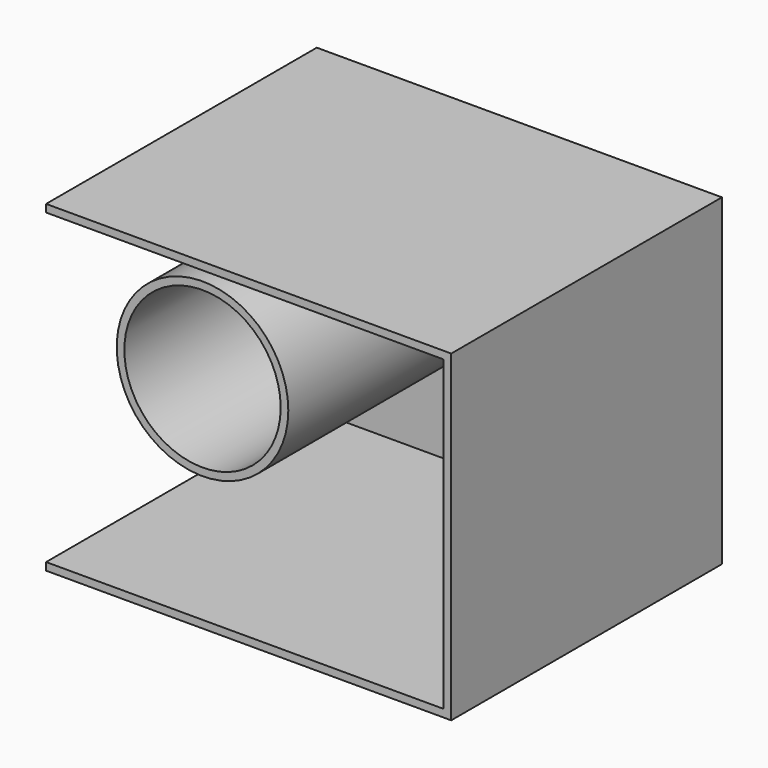
from build123d import *

# Parameters (mm, degrees)
F0_W     = 107.5063981116
F0_H     = 105.9287339449
F0_R     = 25.6439275176
F1_DEPTH = 25.4
F2_DEPTH = 85.598
F3_DEPTH = 25.4
F4_T     = -2.5


with BuildPart() as f1:
    # F0 (on Front) → F1 (new body)
    with BuildSketch(Plane.XZ):
        with Locations((-1.0142084211, -1.1269003153)):
            Rectangle(F0_W, F0_H)
        with Locations((-28.848676011, 18.0304218084)):
            Circle(F0_R, mode=Mode.SUBTRACT)
    extrude(amount=F1_DEPTH)

    # F2 (add): faces of the model
    f2_faces = [f1.faces().sort_by_distance(p)[0] for p in [
        (5.1544323565, -25.4, -5.372522692),
        (5.1544323565, 0, -5.372522692),
    ]]
    extrude(f2_faces, amount=F2_DEPTH, dir=(0, -1, 0))

    # F3 (add): faces of the model
    f3_faces = [f1.faces().sort_by_distance(p)[0] for p in [
        (-54.7674074769, -55.499, -1.1269003153),
        (52.7389906347, -55.499, -1.1269003153),
    ]]
    extrude(f3_faces, amount=F3_DEPTH, dir=(-1, 0, 0))

    # F4
    f4_openings = [f1.faces().sort_by_distance(p)[0] for p in [
        (-11.111372, -110.998, -4.42159),
        (-80.167407, -55.499, -1.1269),
    ]]
    offset(amount=F4_T, openings=f4_openings)


solid = f1.part
